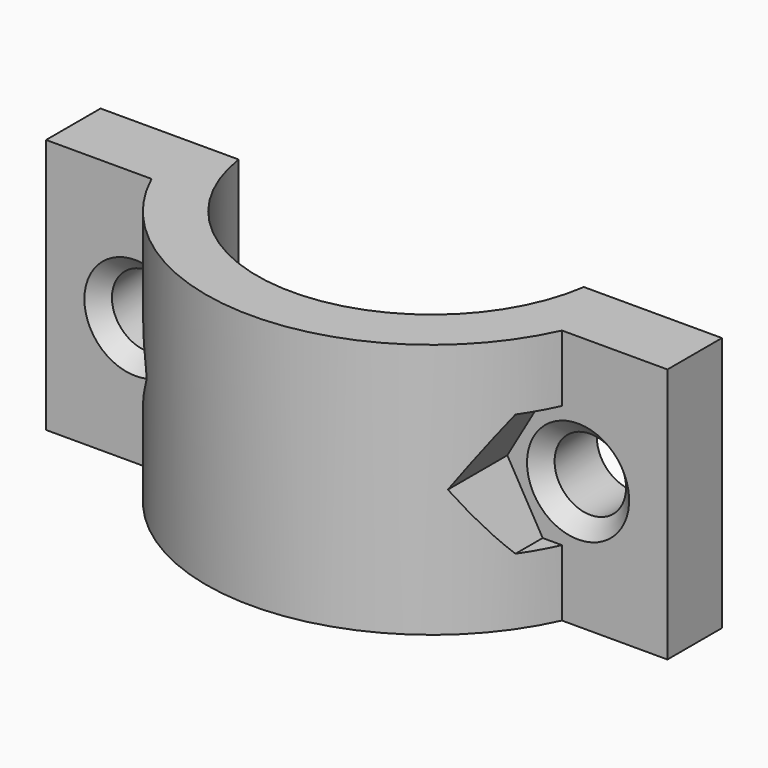
from build123d import *

# Parameters (mm, degrees)
F1_DEPTH       = 15
F3_D           = 4.2
F3_DEPTH       = 10
F3_CSINK_D     = 6
F3_CSINK_ANGLE = 90
F3_TIP         = 1.2618073
F4_DEPTH       = 25


with BuildPart() as f1:
    # F0 (on Top) → F1 (new body)
    with BuildSketch(Plane.XY):
        with BuildLine():
            ThreePointArc((-48.4659095265, 39.8574409581), (-49.4215542208, 41.7790062675), (-49.9561374759, 43.8574409581))
            Line((-49.9561374759, 43.8574409581), (-52.9813081262, 43.8574409581))
            ThreePointArc((-52.9813081262, 43.8574409581), (-52.58380258, 41.8136904443), (-51.8710510318, 39.8574409581))
            Line((-51.8710510318, 39.8574409581), (-48.4659095265, 39.8574409581))
        make_face()
        with BuildLine():
            ThreePointArc((-48.4659095265, 39.8574409581), (-49.4215542208, 41.7790062675), (-49.9561374759, 43.8574409581))
            Line((-49.9561374759, 43.8574409581), (-52.9813081262, 43.8574409581))
            ThreePointArc((-52.9813081262, 43.8574409581), (-52.58380258, 41.8136904443), (-51.8710510318, 39.8574409581))
            Line((-51.8710510318, 39.8574409581), (-48.4659095265, 39.8574409581))
        make_face()
        with BuildLine():
            ThreePointArc((-51.8710510318, 39.8574409581), (-52.58380258, 41.8136904443), (-52.9813081262, 43.8574409581))
            Line((-52.9813081262, 43.8574409581), (-58.0664875805, 43.8574409581))
            Line((-58.0664875805, 43.8574409581), (-58.0664875805, 39.8574409581))
            Line((-58.0664875805, 39.8574409581), (-51.8710510318, 39.8574409581))
        make_face()
        with BuildLine():
            Line((-21.5664875805, 43.8574409581), (-26.6516670349, 43.8574409581))
            ThreePointArc((-26.6516670349, 43.8574409581), (-27.0491725811, 41.8136904443), (-27.7619241293, 39.8574409581))
            Line((-27.7619241293, 39.8574409581), (-21.5664875805, 39.8574409581))
            Line((-21.5664875805, 39.8574409581), (-21.5664875805, 43.8574409581))
        make_face()
        with BuildLine():
            ThreePointArc((-29.6768376852, 43.8574409581), (-37.682197339, 35.3321077883), (-48.4659095265, 39.8574409581))
            Line((-48.4659095265, 39.8574409581), (-51.8710510318, 39.8574409581))
            ThreePointArc((-51.8710510318, 39.8574409581), (-39.8164875805, 32.1074409581), (-27.7619241293, 39.8574409581))
            ThreePointArc((-27.7619241293, 39.8574409581), (-27.0491725811, 41.8136904443), (-26.6516670349, 43.8574409581))
            Line((-26.6516670349, 43.8574409581), (-29.6768376852, 43.8574409581))
        make_face()
    extrude(amount=F1_DEPTH)

    # F3
    with Locations(Plane.XZ.offset(-39.8574409581)):
        with Locations((-52.8164875805, 7.5), (-26.8164875805, 7.5)):
            CounterSinkHole(F3_D / 2, F3_CSINK_D / 2, depth=F3_DEPTH, counter_sink_angle=F3_CSINK_ANGLE)
            with Locations((0, 0, -(F3_DEPTH + F3_TIP / 2))):  # 118° drill point
                Cone(0, F3_D / 2, F3_TIP, mode=Mode.SUBTRACT)

    # F2 (on face) → F4 (cut)
    with BuildSketch(Plane.XZ.offset(-39.8574409581)):
        Polygon((-54.8949485496, 3.9), (-50.7380266115, 3.9), (-48.6595656424, 7.5), (-50.7380266115, 11.1), (-54.8949485496, 11.1), (-56.9734095187, 7.5), align=None)
        Polygon((-28.8949485496, 3.9), (-24.7380266115, 3.9), (-22.6595656424, 7.5), (-24.7380266115, 11.1), (-28.8949485496, 11.1), (-30.9734095187, 7.5), align=None)
    extrude(amount=F4_DEPTH, mode=Mode.SUBTRACT)


solid = f1.part
